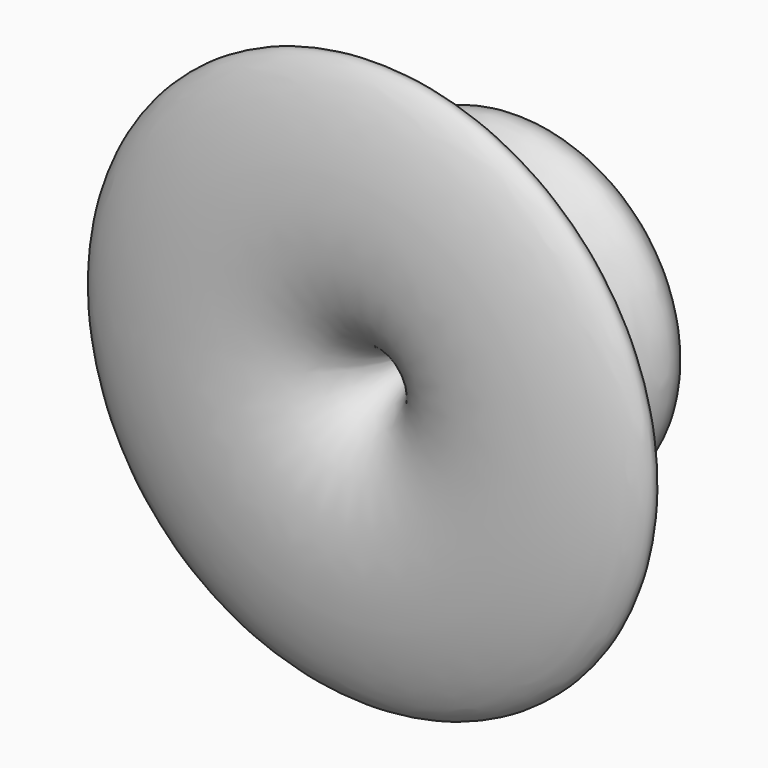
from build123d import *


with BuildPart() as f1:
    # F0 (on Top) → F1 (revolve)
    with BuildSketch(Plane.XY):
        with BuildLine():
            add(Edge.make_bspline(
                [(-11.6143552586, -33.5525795817), (-37.2851285616, -50.6841849399), (-149.5242953198, -23.0990433768), (14.0470750252, -7.0023012643), (-76.9972128583, 31.5787708006), (4.3139266063, 61.7471928867), (13.1112965676, -17.0517089492), (-11.6143552586, -33.5525795817)],
                knots=[0, 0, 0, 0, 0.2318851475, 0.4502301102, 0.6138304708, 0.7766521735, 1, 1, 1, 1], degree=3))
        make_face()
    revolve(axis=Axis((7.0976605639, 3.2262094319, 0), (0, -1, 0)))


solid = f1.part
